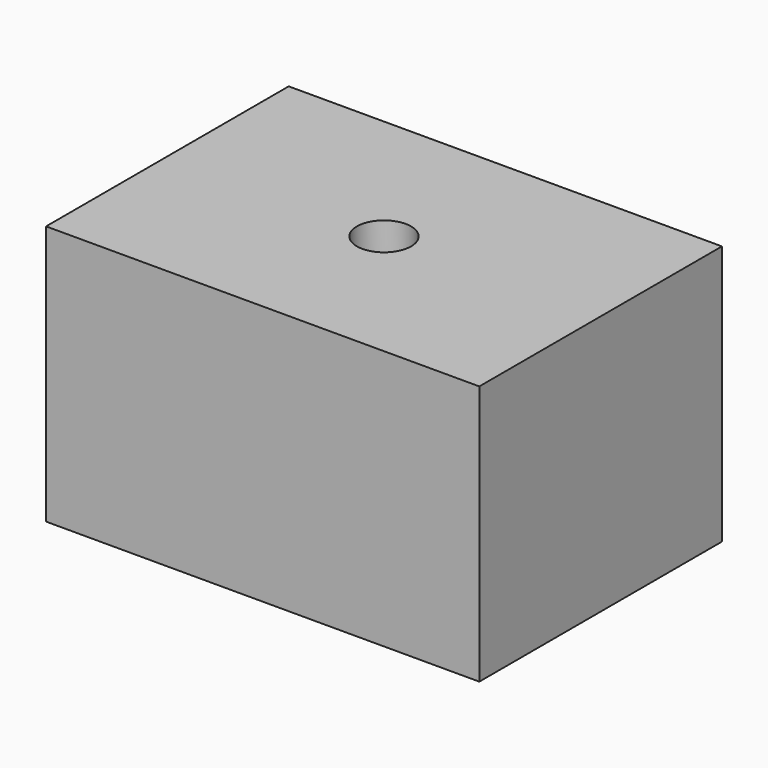
from build123d import *

# Parameters (mm, degrees)
F0_W     = 63.5
F0_H     = 38.1
F1_DEPTH = 22.225
F2_R     = 3.96875
F3_DEPTH = 4.445
F4_R     = 2.38125
F5_DEPTH = 33.656


with BuildPart() as f1:
    # F0 (on Front) → F1 (new body, symmetric)
    with BuildSketch(Plane.XZ):
        Rectangle(F0_W, F0_H)
    extrude(amount=F1_DEPTH, both=True)

    # F2 (on face) → F3 (cut)
    with BuildSketch(Plane.XY.offset(19.05)):
        Circle(F2_R)
    extrude(amount=-F3_DEPTH, mode=Mode.SUBTRACT)

    # F4 (on face) → F5 (cut, through all)
    with BuildSketch(Plane.XY.offset(14.605)):
        Circle(F4_R)
    extrude(amount=-F5_DEPTH, mode=Mode.SUBTRACT)


solid = f1.part
